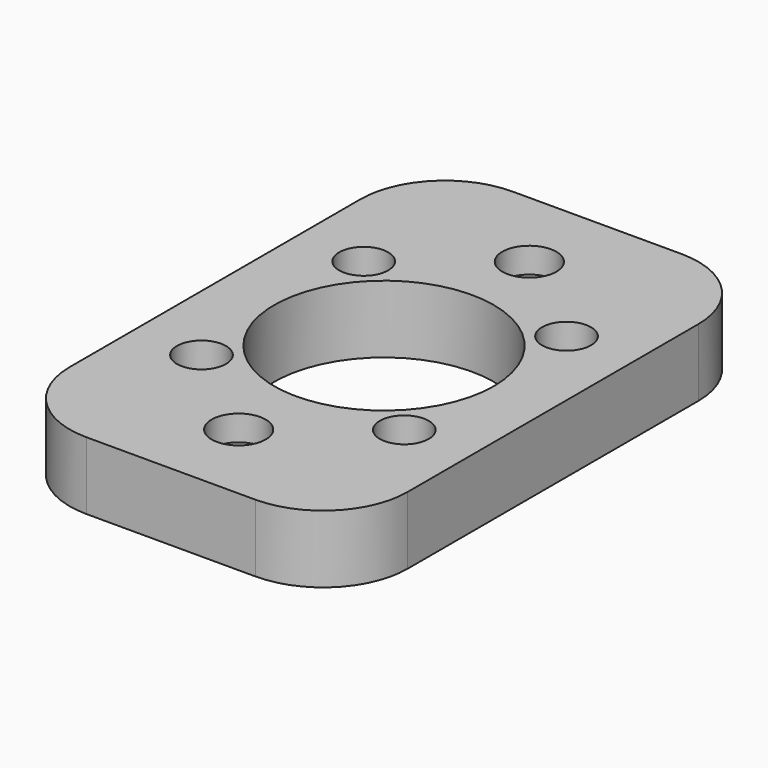
from build123d import *

# Parameters (mm, degrees)
SKETCH_W     = 20
SKETCH_H     = 31.5
SKETCH_R     = 1.6
SKETCH_R_2   = 6.5
SKETCH_R_3   = 1.45
PAD_DEPTH    = 4
POCKET_DEPTH = 2.5
FILLET_R     = 5


with BuildPart() as part:
    # Sketch → Pad (new body)
    with BuildSketch(Plane.XY):
        Rectangle(SKETCH_W, SKETCH_H)
        with Locations((0, 10.75)):
            Circle(SKETCH_R, mode=Mode.SUBTRACT)
        with Locations((0, -10.75)):
            Circle(SKETCH_R, mode=Mode.SUBTRACT)
        Circle(SKETCH_R_2, mode=Mode.SUBTRACT)
        with Locations((6, 6)):
            Circle(SKETCH_R_3, mode=Mode.SUBTRACT)
        with Locations((6, -6)):
            Circle(SKETCH_R_3, mode=Mode.SUBTRACT)
        with Locations((-6, -6)):
            Circle(SKETCH_R_3, mode=Mode.SUBTRACT)
        with Locations((-6, 6)):
            Circle(SKETCH_R_3, mode=Mode.SUBTRACT)
    extrude(amount=PAD_DEPTH)

    # Sketch001 → Pocket (cut)
    with BuildSketch(Plane.XY):
        Polygon((-1.616581, 7.95), (1.616581, 7.95), (3.233162, 10.75), (1.616581, 13.55), (-1.616581, 13.55), (-3.233162, 10.75), align=None)
        Polygon((-1.616581, -7.95), (-3.233162, -10.75), (-1.616581, -13.55), (1.616581, -13.55), (3.233162, -10.75), (1.616581, -7.95), align=None)
    extrude(amount=POCKET_DEPTH, mode=Mode.SUBTRACT)

    # Fillet
    fillet_edges = [part.edges().sort_by_distance(p)[0] for p in [
        (10, -15.75, 2),
        (10, 15.75, 2),
        (-10, 15.75, 2),
        (-10, -15.75, 2),
    ]]
    fillet(fillet_edges, radius=FILLET_R)


solid = part.part
